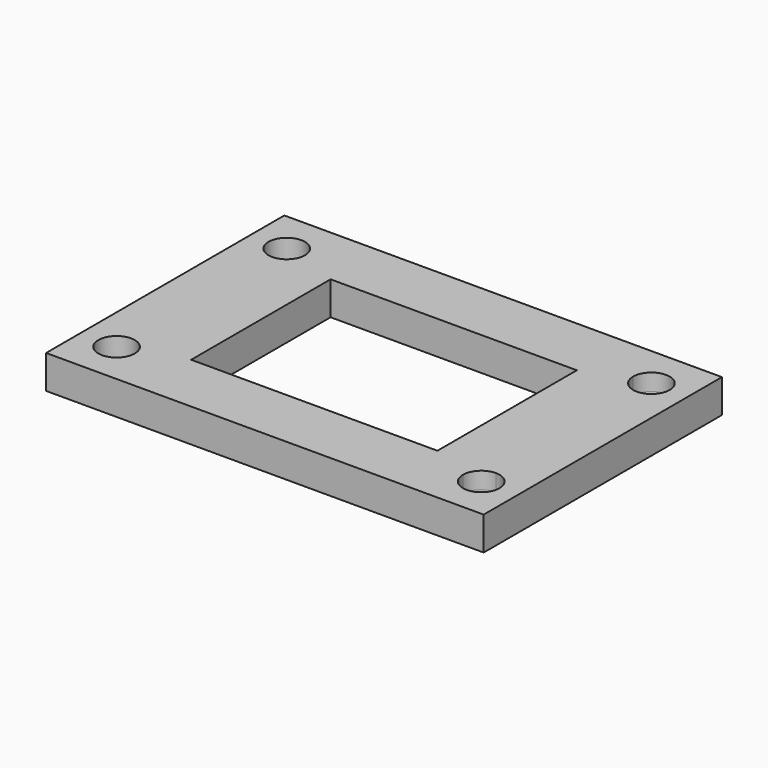
from build123d import *

# Parameters (mm, degrees)
F0_W     = 72
F0_H     = 49
F1_DEPTH = 2.75
F2_W     = 40.5177287757
F2_H     = 28.6664068699
F3_DEPTH = 25


with BuildPart() as f1:
    # F0 (on Top) → F1 (new body, symmetric)
    with BuildSketch(Plane.XY):
        Rectangle(F0_W, F0_H)
        with BuildLine():
            Line((27, -17.5), (-27, -17.5))
            ThreePointArc((-27, -17.5), (-32.1213203436, -19.6213203436), (-30, -14.5))
            Line((-30, -14.5), (-30, 14.5))
            ThreePointArc((-30, 14.5), (-32.1213203436, 19.6213203436), (-27, 17.5))
            Line((-27, 17.5), (27, 17.5))
            ThreePointArc((27, 17.5), (30, 20.5), (33, 17.5))
            ThreePointArc((33, 17.5), (32.1213203436, 15.3786796564), (30, 14.5))
            Line((30, 14.5), (30, -14.5))
            ThreePointArc((30, -14.5), (32.1213203436, -15.3786796564), (33, -17.5))
            ThreePointArc((33, -17.5), (30, -20.5), (27, -17.5))
        make_face(mode=Mode.SUBTRACT)
        with BuildLine():
            ThreePointArc((-30, -14.5), (-27.8786796564, -15.3786796564), (-27, -17.5))
            Line((-27, -17.5), (27, -17.5))
            ThreePointArc((27, -17.5), (27.8786796564, -15.3786796564), (30, -14.5))
            Line((30, -14.5), (30, 14.5))
            ThreePointArc((30, 14.5), (27.8786796564, 15.3786796564), (27, 17.5))
            Line((27, 17.5), (-27, 17.5))
            ThreePointArc((-27, 17.5), (-27.8786796564, 15.3786796564), (-30, 14.5))
            Line((-30, 14.5), (-30, -14.5))
        make_face()
    extrude(amount=F1_DEPTH, both=True)

    # F2 (on face) → F3 (cut)
    with BuildSketch(Plane(origin=(0, 0, -2.75), x_dir=(1, 0, 0), z_dir=(0, 0, -1))):
        Rectangle(F2_W, F2_H)
    extrude(amount=-F3_DEPTH, mode=Mode.SUBTRACT)


solid = f1.part
